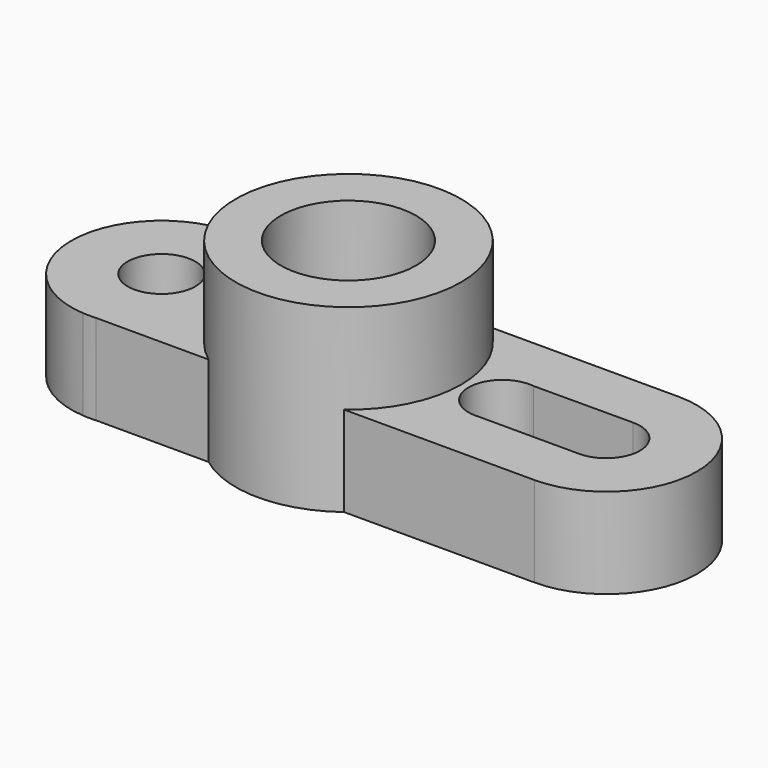
from build123d import *

# Parameters (mm, degrees)
F0_R     = 9.525
F0_R_2   = 19.05
F1_DEPTH = 25.4
F2_DEPTH = 50.8
F0_R_3   = 12.7
F3_DEPTH = 25.4


with BuildPart() as f1:
    # F0 (on Top) → F1 (new body)
    with BuildSketch(Plane.XY):
        with BuildLine():
            Line((-19.05, 25.4), (19.05, 25.4))
            ThreePointArc((19.05, 25.4), (0, 31.75), (-19.05, 25.4))
        make_face()
        with BuildLine():
            ThreePointArc((-19.114402028, -25.3515706636), (-0.0167484131, -31.7499955825), (19.0876450268, -25.3717225929))
            Line((19.0876450268, -25.3717225929), (-19.114402028, -25.3515706636))
        make_face()
        with BuildLine():
            ThreePointArc((-54.4814434441, -25.3329142257), (-52.6499961562, -25.399996466), (-50.8184791146, -25.3348464729))
            Line((-50.8184791146, -25.3348464729), (-54.4814434441, -25.3329142257))
        make_face()
        with BuildLine():
            ThreePointArc((-19.114402028, -25.3515706636), (-31.7499744369, 0.0402896446), (-19.05, 25.4))
            Line((-19.05, 25.4), (-52.6365974257, 25.4))
            ThreePointArc((-52.6365974257, 25.4), (-78.0198204414, 0.9230326826), (-54.4814434441, -25.3329142257))
            Line((-54.4814434441, -25.3329142257), (-50.8184791146, -25.3348464729))
            Line((-50.8184791146, -25.3348464729), (-19.114402028, -25.3515706636))
        make_face()
        with Locations((-52.6365974257, 0)):
            Circle(F0_R, mode=Mode.SUBTRACT)
        with BuildLine():
            ThreePointArc((19.05, 25.4), (28.3980633142, 14.1990316571), (31.75, 0))
            ThreePointArc((31.75, 0), (28.4085834705, -14.1779718295), (19.0876450268, -25.3717225929))
            Line((19.0876450268, -25.3717225929), (72.6864750945, -25.399996466))
            ThreePointArc((72.6864750945, -25.399996466), (98.0998729414, -0.0066993655), (72.6998738249, 25.4))
            Line((72.6998738249, 25.4), (19.05, 25.4))
        make_face()
        with BuildLine():
            ThreePointArc((44.1823822002, -9.4888135551), (33.8302697715, 0.2125014193), (44.6048393131, 9.4423657283))
            Line((44.6048393131, 9.4423657283), (72.544717238, 9.5249583835))
            ThreePointArc((72.544717238, 9.5249583835), (79.2981036912, 6.7451396016), (82.0978738249, 0))
            ThreePointArc((82.0978738249, 0), (79.146859724, -6.8926289903), (72.1223705392, -9.5143403234))
            Line((72.1223705392, -9.5143403234), (44.1823822002, -9.4888135551))
        make_face(mode=Mode.SUBTRACT)
        with BuildLine():
            ThreePointArc((19.0876450268, -25.3717225929), (28.4085834705, -14.1779718295), (31.75, 0))
            ThreePointArc((31.75, 0), (28.3980633142, 14.1990316571), (19.05, 25.4))
            Line((19.05, 25.4), (-19.05, 25.4))
            ThreePointArc((-19.05, 25.4), (-31.7499744369, 0.0402896446), (-19.114402028, -25.3515706636))
            Line((-19.114402028, -25.3515706636), (19.0876450268, -25.3717225929))
        make_face()
        Circle(F0_R_2, mode=Mode.SUBTRACT)
    extrude(amount=F1_DEPTH)

    # F0 (on Top) → F2 (join)
    with BuildSketch(Plane.XY):
        with BuildLine():
            ThreePointArc((19.0876450268, -25.3717225929), (28.4085834705, -14.1779718295), (31.75, 0))
            ThreePointArc((31.75, 0), (28.3980633142, 14.1990316571), (19.05, 25.4))
            Line((19.05, 25.4), (-19.05, 25.4))
            ThreePointArc((-19.05, 25.4), (-31.7499744369, 0.0402896446), (-19.114402028, -25.3515706636))
            Line((-19.114402028, -25.3515706636), (19.0876450268, -25.3717225929))
        make_face()
        Circle(F0_R_2, mode=Mode.SUBTRACT)
        with BuildLine():
            ThreePointArc((-19.114402028, -25.3515706636), (-0.0167484131, -31.7499955825), (19.0876450268, -25.3717225929))
            Line((19.0876450268, -25.3717225929), (-19.114402028, -25.3515706636))
        make_face()
        with BuildLine():
            Line((-19.05, 25.4), (19.05, 25.4))
            ThreePointArc((19.05, 25.4), (0, 31.75), (-19.05, 25.4))
        make_face()
    extrude(amount=F2_DEPTH)

    # F0 (on Top) → F3 (join)
    with BuildSketch(Plane.XY):
        Circle(F0_R_2)
        Circle(F0_R_3, mode=Mode.SUBTRACT)
    extrude(amount=F3_DEPTH)


solid = f1.part
